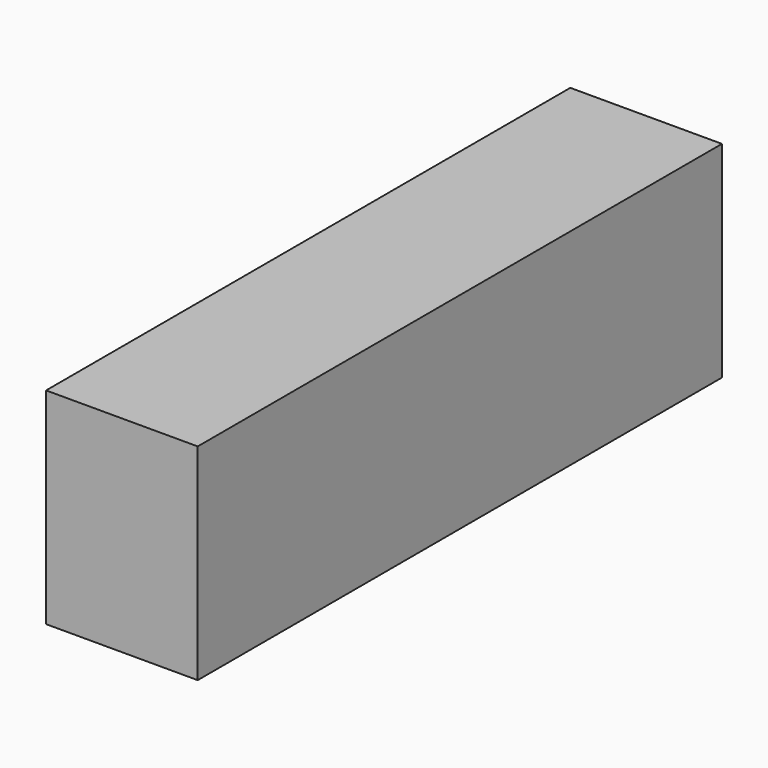
from build123d import *

# Parameters (mm, degrees)
F1_DEPTH = 280
F2_T     = -50


with BuildPart() as f1:
    # F0 (on Right) → F1 (new body)
    with BuildSketch(Plane.YZ):
        Polygon((-1110, 0), (0, 0), (50, 0), (50, 380), (-1160, 380), (-1160, 0), align=None)
    extrude(amount=F1_DEPTH)

    # F2
    f2_openings = [f1.faces().sort_by_distance(p)[0] for p in [
        (0, -555, 190),
        (140, -555, 0),
    ]]
    offset(amount=F2_T, openings=f2_openings)


solid = f1.part
